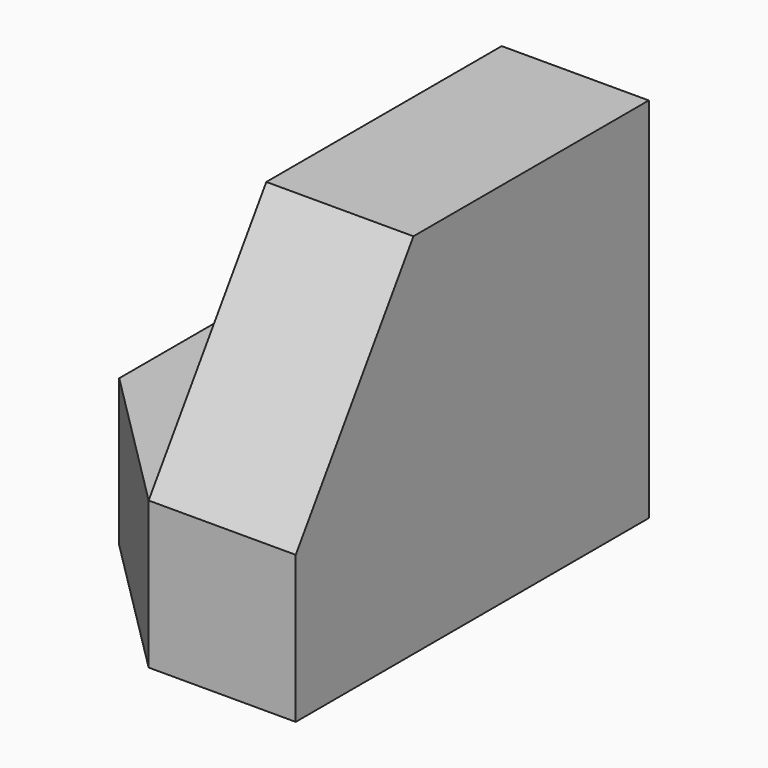
from build123d import *

# Parameters (mm, degrees)
F1_DEPTH = 38.1
F2_W     = 25.4
F2_H     = 22.023344
F3_DEPTH = 12.7
F5_DEPTH = 12.7


with BuildPart() as f1:
    # F0 (on Front) → F1 (new body)
    with BuildSketch(Plane.XZ):
        Polygon((0, 12.7), (0, 0), (25.4, 0), (25.4, 31.75), (12.7, 31.75), (12.7, 12.7), align=None)
    extrude(amount=F1_DEPTH)

    # F2 (on face) → F3 (cut)
    with BuildSketch(Plane(origin=(12.7, 0, 0), x_dir=(0, -1, 0), z_dir=(-1, 0, 0))):
        with Locations((12.7, 42.761672)):
            Rectangle(F2_W, F2_H)
        Polygon((38.1, 31.75), (25.4, 31.75), (38.1, 12.7), align=None)
    extrude(amount=-F3_DEPTH, mode=Mode.SUBTRACT)

    # F4 (on face) → F5 (cut)
    with BuildSketch(Plane.XY.offset(12.7)):
        Polygon((0, -25.4), (0, -38.1), (12.7, -38.1), align=None)
    extrude(amount=-F5_DEPTH, mode=Mode.SUBTRACT)


solid = f1.part
